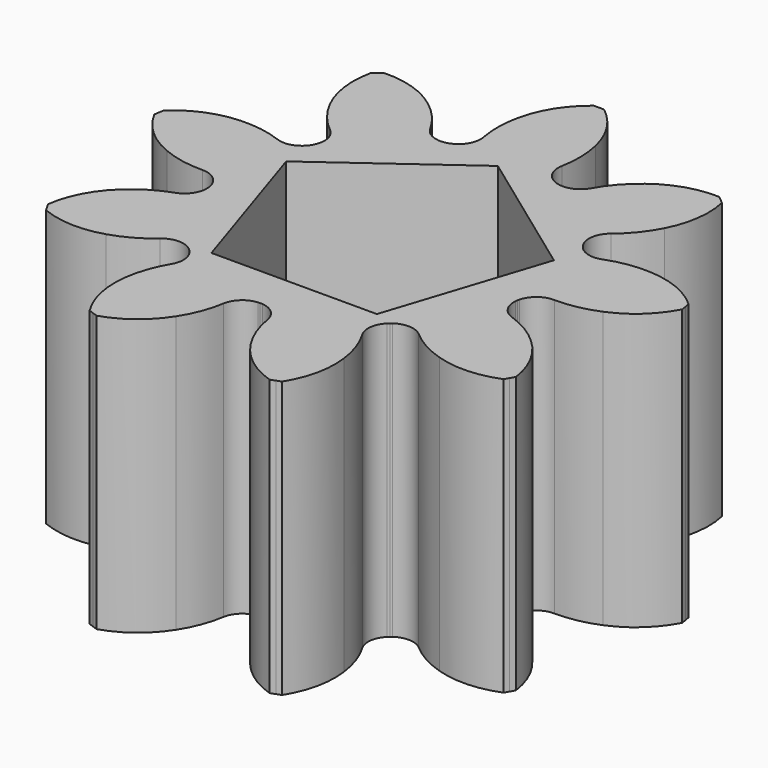
from build123d import *

# Parameters (mm, degrees)
F1_DEPTH = 10


with BuildPart() as f1:
    # F0 (on Top) → F1 (new body)
    with BuildSketch(Plane.XY):
        with BuildLine():
            ThreePointArc((1.864316, 5.3522), (1.490455, 5.713083), (1.417156, 6.227511))
            ThreePointArc((1.417156, 6.227511), (1.483836, 7.003606), (1.389552, 7.776834))
            ThreePointArc((1.389552, 7.776834), (0.955753, 8.832789), (0.188574, 9.678163))
            Line((0.188574, 9.678163), (0, 9.68))
            Line((0, 9.68), (-0.188574, 9.678163))
            ThreePointArc((-0.188574, 9.678163), (-0.955753, 8.832789), (-1.389552, 7.776834))
            ThreePointArc((-1.389552, 7.776834), (-1.483836, 7.003606), (-1.417156, 6.227511))
            ThreePointArc((-1.417156, 6.227511), (-1.490455, 5.713083), (-1.864316, 5.3522))
            ThreePointArc((-1.864316, 5.3522), (-1.900395, 5.336418), (-1.937206, 5.32243))
            ThreePointArc((-1.937206, 5.32243), (-1.974396, 5.309483), (-2.012179, 5.298382))
            ThreePointArc((-2.012179, 5.298382), (-2.530544, 5.334521), (-2.917363, 5.68148))
            ThreePointArc((-2.917363, 5.68148), (-3.365147, 6.318865), (-3.934394, 6.850587))
            ThreePointArc((-3.934394, 6.850587), (-4.945458, 7.380655), (-6.076547, 7.535116))
            Line((-6.076547, 7.535116), (-6.222184, 7.41531))
            Line((-6.222184, 7.41531), (-6.365459, 7.29269))
            ThreePointArc((-6.365459, 7.29269), (-6.409757, 6.151962), (-6.063311, 5.064213))
            ThreePointArc((-6.063311, 5.064213), (-5.638516, 4.411282), (-5.088571, 3.85962))
            ThreePointArc((-5.088571, 3.85962), (-4.814053, 3.418429), (-4.868477, 2.901664))
            ThreePointArc((-4.868477, 2.901664), (-4.88597, 2.866383), (-4.905178, 2.832006))
            ThreePointArc((-4.905178, 2.832006), (-4.925345, 2.798183), (-4.947153, 2.765393))
            ThreePointArc((-4.947153, 2.765393), (-5.367473, 2.459878), (-5.886814, 2.477022))
            ThreePointArc((-5.886814, 2.477022), (-6.63954, 2.677457), (-7.417393, 2.718875))
            ThreePointArc((-7.417393, 2.718875), (-8.532634, 2.475031), (-9.498384, 1.866304))
            Line((-9.498384, 1.866304), (-9.532939, 1.680914))
            Line((-9.532939, 1.680914), (-9.563876, 1.494886))
            ThreePointArc((-9.563876, 1.494886), (-8.864564, 0.592564), (-7.899979, -0.018009))
            ThreePointArc((-7.899979, -0.018009), (-7.154871, -0.24513), (-6.378987, -0.31423))
            ThreePointArc((-6.378987, -0.31423), (-5.885103, -0.475745), (-5.594623, -0.906593))
            ThreePointArc((-5.594623, -0.906593), (-5.585346, -0.944864), (-5.577963, -0.983545))
            ThreePointArc((-5.577963, -0.983545), (-5.571671, -1.022419), (-5.567299, -1.061555))
            ThreePointArc((-5.567299, -1.061555), (-5.692902, -1.56577), (-6.10176, -1.886463))
            ThreePointArc((-6.10176, -1.886463), (-6.807219, -2.216763), (-7.429712, -2.685029))
            ThreePointArc((-7.429712, -2.685029), (-8.127296, -3.588688), (-8.475822, -4.675772))
            Line((-8.475822, -4.675772), (-8.383126, -4.84))
            Line((-8.383126, -4.84), (-8.287248, -5.002391))
            ThreePointArc((-8.287248, -5.002391), (-7.171543, -5.244101), (-6.04016, -5.091804))
            ThreePointArc((-6.04016, -5.091804), (-5.323383, -4.786843), (-4.684605, -4.341048))
            ThreePointArc((-4.684605, -4.341048), (-4.202447, -4.147313), (-3.702983, -4.290645))
            ThreePointArc((-3.702983, -4.290645), (-3.671276, -4.313999), (-3.640757, -4.338885))
            ThreePointArc((-3.640757, -4.338885), (-3.610949, -4.364619), (-3.582444, -4.391789))
            ThreePointArc((-3.582444, -4.391789), (-3.354559, -4.858776), (-3.461625, -5.36725))
            ThreePointArc((-3.461625, -5.36725), (-3.789724, -6.073735), (-3.965586, -6.832579))
            ThreePointArc((-3.965586, -6.832579), (-3.919106, -7.973219), (-3.487328, -9.030002))
            Line((-3.487328, -9.030002), (-3.310755, -9.096225))
            Line((-3.310755, -9.096225), (-3.132925, -9.158994))
            ThreePointArc((-3.132925, -9.158994), (-2.122877, -8.626993), (-1.354082, -7.783088))
            ThreePointArc((-1.354082, -7.783088), (-1.001025, -7.088739), (-0.798243, -6.336642))
            ThreePointArc((-0.798243, -6.336642), (-0.55342, -5.878307), (-0.078676, -5.667056))
            ThreePointArc((-0.078676, -5.667056), (-0.039376, -5.664566), (0, -5.664012))
            ThreePointArc((0, -5.664012), (0.039376, -5.664566), (0.078676, -5.667056))
            ThreePointArc((0.078676, -5.667056), (0.55342, -5.878307), (0.798243, -6.336642))
            ThreePointArc((0.798243, -6.336642), (1.001025, -7.088739), (1.354082, -7.783088))
            ThreePointArc((1.354082, -7.783088), (2.122877, -8.626993), (3.132925, -9.158994))
            Line((3.132925, -9.158994), (3.310755, -9.096225))
            Line((3.310755, -9.096225), (3.487328, -9.030002))
            ThreePointArc((3.487328, -9.030002), (3.919106, -7.973219), (3.965586, -6.832579))
            ThreePointArc((3.965586, -6.832579), (3.789724, -6.073735), (3.461625, -5.36725))
            ThreePointArc((3.461625, -5.36725), (3.354559, -4.858776), (3.582444, -4.391789))
            ThreePointArc((3.582444, -4.391789), (3.610949, -4.364619), (3.640757, -4.338885))
            ThreePointArc((3.640757, -4.338885), (3.671276, -4.313999), (3.702983, -4.290645))
            ThreePointArc((3.702983, -4.290645), (4.202447, -4.147313), (4.684605, -4.341048))
            ThreePointArc((4.684605, -4.341048), (5.323383, -4.786843), (6.04016, -5.091804))
            ThreePointArc((6.04016, -5.091804), (7.171543, -5.244101), (8.287248, -5.002391))
            Line((8.287248, -5.002391), (8.383126, -4.84))
            Line((8.383126, -4.84), (8.475822, -4.675772))
            ThreePointArc((8.475822, -4.675772), (8.127296, -3.588688), (7.429712, -2.685029))
            ThreePointArc((7.429712, -2.685029), (6.807219, -2.216763), (6.10176, -1.886463))
            ThreePointArc((6.10176, -1.886463), (5.692902, -1.56577), (5.567299, -1.061555))
            ThreePointArc((5.567299, -1.061555), (5.571671, -1.022419), (5.577963, -0.983545))
            ThreePointArc((5.577963, -0.983545), (5.585346, -0.944864), (5.594623, -0.906593))
            ThreePointArc((5.594623, -0.906593), (5.885103, -0.475745), (6.378987, -0.31423))
            ThreePointArc((6.378987, -0.31423), (7.154871, -0.24513), (7.899979, -0.018009))
            ThreePointArc((7.899979, -0.018009), (8.864564, 0.592564), (9.563876, 1.494886))
            Line((9.563876, 1.494886), (9.532939, 1.680914))
            Line((9.532939, 1.680914), (9.498384, 1.866304))
            ThreePointArc((9.498384, 1.866304), (8.532634, 2.475031), (7.417393, 2.718875))
            ThreePointArc((7.417393, 2.718875), (6.63954, 2.677457), (5.886814, 2.477022))
            ThreePointArc((5.886814, 2.477022), (5.367473, 2.459878), (4.947153, 2.765393))
            ThreePointArc((4.947153, 2.765393), (4.925345, 2.798183), (4.905178, 2.832006))
            ThreePointArc((4.905178, 2.832006), (4.88597, 2.866383), (4.868477, 2.901664))
            ThreePointArc((4.868477, 2.901664), (4.814053, 3.418429), (5.088571, 3.85962))
            ThreePointArc((5.088571, 3.85962), (5.638516, 4.411282), (6.063311, 5.064213))
            ThreePointArc((6.063311, 5.064213), (6.409757, 6.151962), (6.365459, 7.29269))
            Line((6.365459, 7.29269), (6.222184, 7.41531))
            Line((6.222184, 7.41531), (6.076547, 7.535116))
            ThreePointArc((6.076547, 7.535116), (4.945458, 7.380655), (3.934394, 6.850587))
            ThreePointArc((3.934394, 6.850587), (3.365147, 6.318865), (2.917363, 5.68148))
            ThreePointArc((2.917363, 5.68148), (2.530544, 5.334521), (2.012179, 5.298382))
            ThreePointArc((2.012179, 5.298382), (1.974396, 5.309483), (1.937206, 5.32243))
            ThreePointArc((1.937206, 5.32243), (1.900395, 5.336418), (1.864316, 5.3522))
        make_face()
        Polygon((0, 5.1), (4.850388, 1.575987), (2.997705, -4.125987), (-2.997705, -4.125987), (-4.850388, 1.575987), align=None, mode=Mode.SUBTRACT)
    extrude(amount=F1_DEPTH)


solid = f1.part
